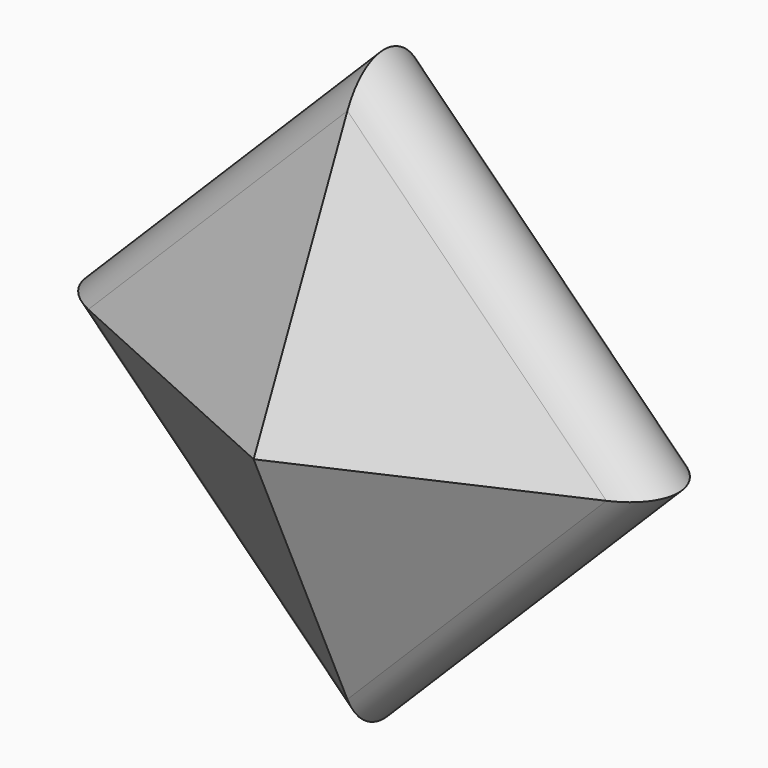
from build123d import *

# Parameters (mm, degrees)
F3_R     = 5.08
F4_R     = 12.573
F5_DEPTH = 5.08


with BuildPart() as f2:
    # F0 (on Front) → F2 section 0
    with BuildSketch(Plane.XZ, mode=Mode.PRIVATE) as f2_s0:
        Polygon((-44.901281, 0), (0, -44.901281), (44.901281, 0), (0, 44.901281), align=None)
    loft([f2_s0.sketch, Vertex(0, -20.32, 0)])

    # F3
    f3_edges = [f2.edges().sort_by_distance(p)[0] for p in [
        (-22.45064, 0, -22.45064),
        (22.45064, 0, -22.45064),
        (22.45064, 0, 22.45064),
        (-22.45064, 0, 22.45064),
    ]]
    fillet(f3_edges, radius=F3_R)

    # F4 (on face) → F5 (cut)
    with BuildSketch(Plane(origin=(0, 0, 0), x_dir=(-1, 0, 0), z_dir=(0, 1, 0))):
        Circle(F4_R)
    extrude(amount=-F5_DEPTH, mode=Mode.SUBTRACT)


solid = f2.part
